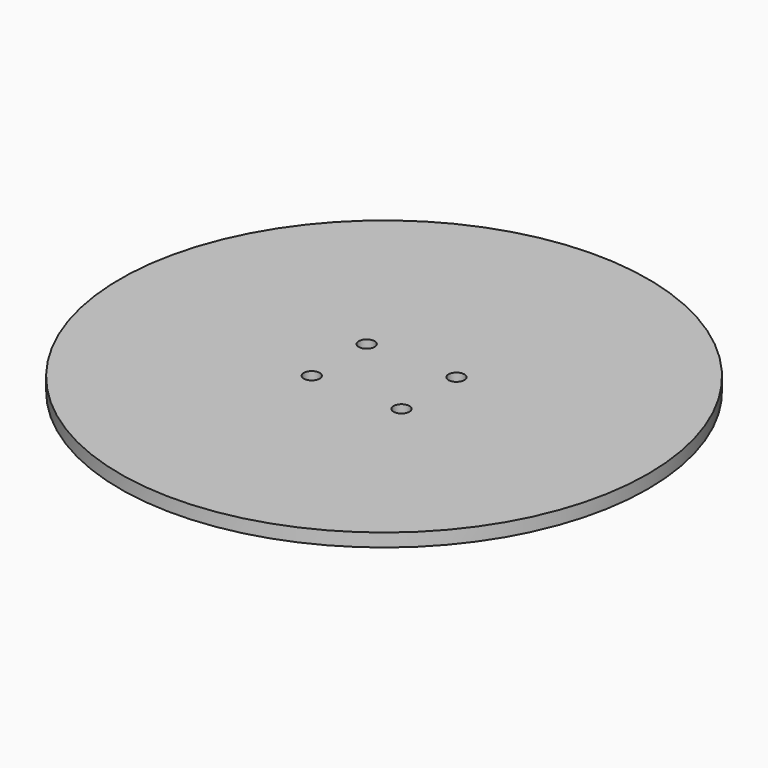
from build123d import *

# Parameters (mm, degrees)
F0_R     = 50
F0_R_2   = 1.5
F1_DEPTH = 2.5


with BuildPart() as f1:
    # F0 (on Top) → F1 (new body)
    with BuildSketch(Plane.XY):
        Circle(F0_R)
        with Locations((-8.5, -6.5)):
            Circle(F0_R_2, mode=Mode.SUBTRACT)
        with Locations((8.5, -6.5)):
            Circle(F0_R_2, mode=Mode.SUBTRACT)
        with Locations((-8.5, 6.5)):
            Circle(F0_R_2, mode=Mode.SUBTRACT)
        with Locations((8.5, 6.5)):
            Circle(F0_R_2, mode=Mode.SUBTRACT)
    extrude(amount=-F1_DEPTH)


solid = f1.part
